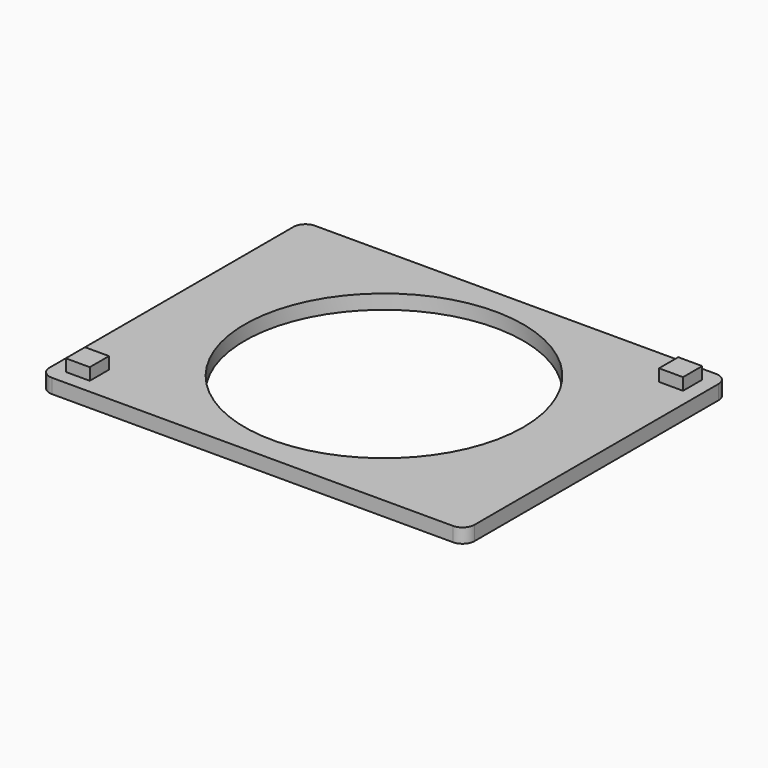
from build123d import *

# Parameters (mm, degrees)
SKETCH007_W        = 35.4
SKETCH007_H        = 27.4
PAD002_DEPTH       = 1.2
FILLET001_R        = 1
SKETCH008_R        = 11.6
POCKET003_DEPTH    = 1.201
SKETCH009_W        = 2
SKETCH009_H        = 2
PAD003_DEPTH       = 1
POLARPATTERN_COUNT = 2


with BuildPart() as part:
    # Sketch007 → Pad002 (new body)
    with BuildSketch(Plane.XY):
        Rectangle(SKETCH007_W, SKETCH007_H)
    extrude(amount=PAD002_DEPTH)

    # Fillet001
    fillet001_edges = [part.edges().sort_by_distance(p)[0] for p in [
        (-17.7, -13.7, 0.6),
        (17.7, -13.7, 0.6),
        (17.7, 13.7, 0.6),
        (-17.7, 13.7, 0.6),
    ]]
    fillet(fillet001_edges, radius=FILLET001_R)

    # Sketch008 (on Face5 of Fillet001) → Pocket003 (cut, through all)
    with BuildSketch(Plane.XY.offset(1.2)):
        Circle(SKETCH008_R)
    extrude(amount=-POCKET003_DEPTH, mode=Mode.SUBTRACT)

    # Sketch009 (on Face5 of Pocket003) → Pad003 (join)
    with BuildSketch(Plane.XY.offset(1.2)):
        with Locations((-15.5, -11.5)):
            Rectangle(SKETCH009_W, SKETCH009_H)
    pad003 = extrude(amount=PAD003_DEPTH)

    # PolarPattern: Pad003 ×2 about axis
    polarpattern_axis = Axis((0, 0, 1.2), (0, 0, 1))
    for i in range(1, POLARPATTERN_COUNT):
        add(pad003.rotate(polarpattern_axis, i * 360 / POLARPATTERN_COUNT))


with BuildPart() as part_1:
    # Body002 placement: moved
    add(part.part.moved(Location((50, 0, 0))))


solid = part_1.part
